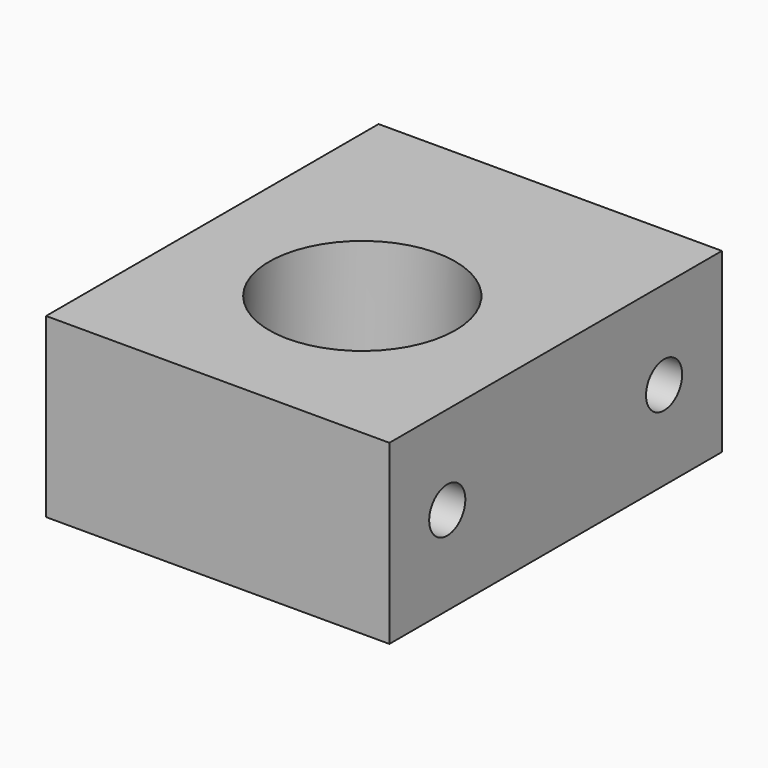
from build123d import *

# Parameters (mm, degrees)
F0_W     = 19
F0_H     = 23
F0_R     = 5.15
F1_DEPTH = 9.8
F3_D     = 2
F3_DEPTH = 5
F3_TIP   = 0.600860619
F5_D     = 4
F5_DEPTH = 5
F5_TIP   = 1.2017212381
F7_D     = 2.5
F7_DEPTH = 5
F7_TIP   = 0.7510757738


with BuildPart() as f1:
    # F0 (on Top) → F1 (new body)
    with BuildSketch(Plane.XY):
        with Locations((0, 1.5)):
            Rectangle(F0_W, F0_H)
        Circle(F0_R, mode=Mode.SUBTRACT)
    extrude(amount=F1_DEPTH)

    # F3
    with Locations(Plane(origin=(0, 0, 0), x_dir=(1, 0, 0), z_dir=(0, 0, -1))):
        with Locations((-7.62, 0), (7.62, 0)):
            Hole(F3_D / 2, depth=F3_DEPTH)
            with Locations((0, 0, -(F3_DEPTH + F3_TIP / 2))):  # 118° drill point
                Cone(0, F3_D / 2, F3_TIP, mode=Mode.SUBTRACT)

    # F5
    with Locations(Plane(origin=(0, 13, 0), x_dir=(-1, 0, 0), z_dir=(0, 1, 0))):
        with Locations((0, 4.9)):
            Hole(F5_D / 2, depth=F5_DEPTH)
            with Locations((0, 0, -(F5_DEPTH + F5_TIP / 2))):  # 118° drill point
                Cone(0, F5_D / 2, F5_TIP, mode=Mode.SUBTRACT)

    # F7
    with Locations(Plane.YZ.offset(9.5)):
        with Locations((-6, 4.9), (9, 4.9)):
            Hole(F7_D / 2, depth=F7_DEPTH)
            with Locations((0, 0, -(F7_DEPTH + F7_TIP / 2))):  # 118° drill point
                Cone(0, F7_D / 2, F7_TIP, mode=Mode.SUBTRACT)


solid = f1.part
